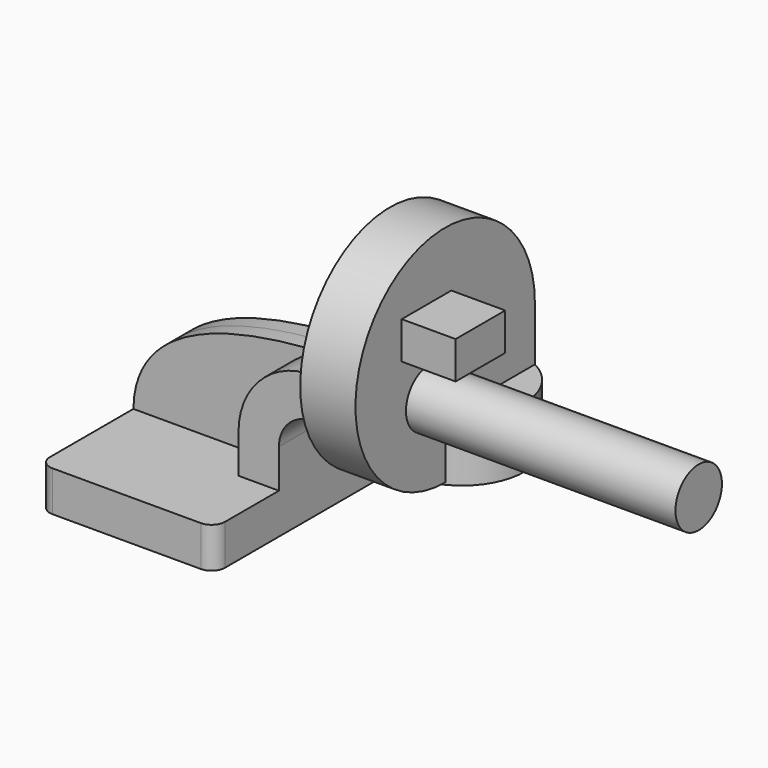
from build123d import *

# Parameters (mm, degrees)
F1_DEPTH  = 63.5
F0_W      = 21.3422756978
F0_H      = 19.05
F2_DEPTH  = 25.4
F3_DEPTH  = 7.9375
F5_R      = 6.35
F6_W      = 26.030293598
F6_H      = 52.8502463959
F7_DEPTH  = 25.4
F7_FACE_W = 26.030293598
F7_FACE_H = 52.8502463959
F9_W      = 29.2156040668
F9_H      = 17.6097750664
F10_DEPTH = 25.4
F12_R     = 13.6846052914
F13_DEPTH = 127


with BuildPart() as f1:
    # F0 (on Front) → F1 (new body, symmetric)
    with BuildSketch(Plane.XZ):
        Polygon((41.275, -9.525), (41.275, 9.525), (22.225, 9.525), (-41.275, 9.525), (-41.275, -9.525), align=None)
    extrude(amount=F1_DEPTH, both=True)

    # F0 (on Front) → F2 (join, symmetric)
    with BuildSketch(Plane.XZ):
        with BuildLine():
            Line((22.225, 9.525), (41.275, 9.525))
            Line((41.275, 9.525), (41.275, 27.7654680662))
            ThreePointArc((41.275, 27.7654680662), (44.31804227, 37.1119372292), (52.28054152, 42.8752))
            Line((52.28054152, 42.8752), (85.9294086695, 42.8752))
            Line((85.9294086695, 42.8752), (85.9294086695, 61.9252))
            Line((85.9294086695, 61.9252), (49.8789382336, 61.9252))
            ThreePointArc((49.8789382336, 61.9252), (30.0050422989, 49.7406107598), (22.225, 27.7654680662))
            Line((22.225, 27.7654680662), (22.225, 9.525))
        make_face()
        with Locations((96.6005465184, 52.4002)):
            Rectangle(F0_W, F0_H)
    extrude(amount=F2_DEPTH, both=True)

    # F0 (on Front) → F3 (join, symmetric)
    with BuildSketch(Plane.XZ):
        with BuildLine():
            Line((-41.275, 9.525), (22.225, 9.525))
            Line((22.225, 9.525), (22.225, 27.7654680662))
            ThreePointArc((22.225, 27.7654680662), (30.0050422989, 49.7406107598), (49.8789382336, 61.9252))
            add(Edge.make_bspline(
                [(-41.275, 9.525), (-40.6103878044, 51.4096161185), (12.72025149, 60.2582759139), (49.8789382336, 61.9252)],
                knots=[0, 0, 0, 0, 105.1419108421, 105.1419108421, 105.1419108421, 105.1419108421], degree=3))
        make_face()
    extrude(amount=F3_DEPTH, both=True)

    # F0 (on Front) → F4 (revolve)
    with BuildSketch(Plane.XZ):
        Polygon((107.2716843673, 61.9252), (107.2716843673, 42.8752), (107.2716843673, 38.1), (136.7294086695, 38.1), (136.7294086695, 66.675), (107.2716843673, 66.675), align=None)
    revolve(axis=Axis((107.2716843673, 0, 52.3875), (0, 0, -1)))

    # F5
    f5_edges = [f1.edges().sort_by_distance(p)[0] for p in [
        (41.275, -63.5, 0),
        (41.275, 63.5, 0),
        (-41.275, 63.5, 0),
        (-41.275, -63.5, 0),
    ]]
    fillet(f5_edges, radius=F5_R)

    # F6 (on face) → F7 (join)
    with BuildSketch(Plane.XY.offset(66.675)):
        with Locations((107.5195462284, -0.1220792231)):
            Rectangle(F6_W, F6_H)
    extrude(amount=F7_DEPTH)

    # F7_face (on face) → F8 (revolve)
    with BuildSketch(Plane(origin=(107.5195462284, -0.1220792231, 92.075), x_dir=(1, 0, 0), z_dir=(0, 0, 1))):
        Rectangle(F7_FACE_W, F7_FACE_H)
    revolve(axis=Axis((107.5195462284, -26.547202421, 92.075), (-1, 0, 0)))

    # F9 (on face) → F10 (join)
    with BuildSketch(Plane.YZ.offset(120.5346930274)):
        with Locations((-37.5394821167, 108.5370406508)):
            Rectangle(F9_W, F9_H)
    extrude(amount=F10_DEPTH)

    # F12 (on face) → F13 (join)
    with BuildSketch(Plane.YZ.offset(120.5346930274)):
        with Locations((-35.9719246626, 78.1719759107)):
            Circle(F12_R)
        with Locations((-35.9719246626, 78.1719759107)):
            Circle(F12_R)
    extrude(amount=F13_DEPTH)


solid = f1.part
